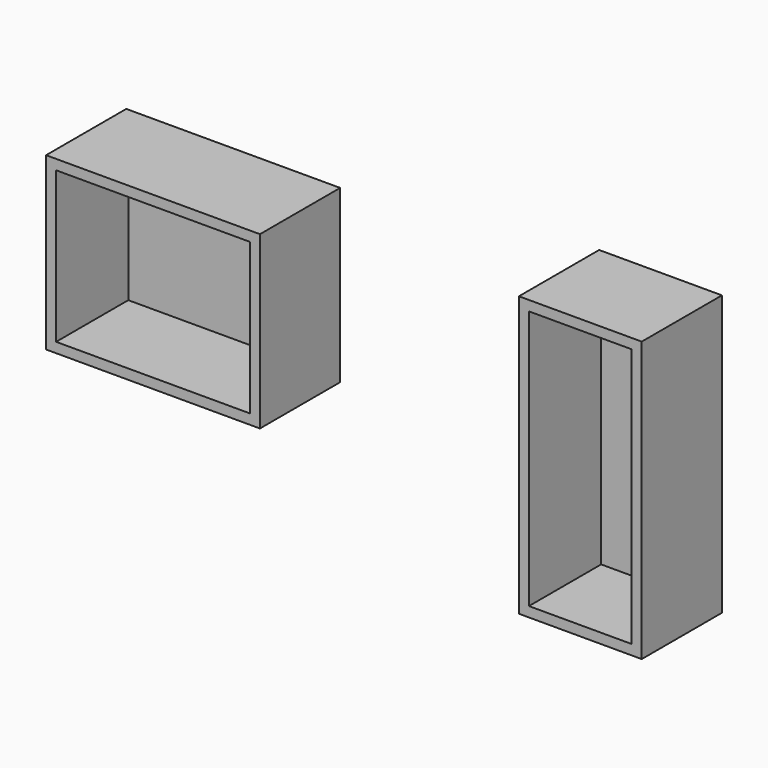
from build123d import *

# Parameters (mm, degrees)
F0_W     = 54.1866458952
F0_H     = 43.34513098
F1_DEPTH = 25.4
F0_W_2   = 31.114988029
F0_H_2   = 70.8162225783
F2_T     = -2.54
F3_T     = -2.54


with BuildPart() as f1:
    # F0 (on Front) → F1 (new body)
    with BuildSketch(Plane.XZ):
        with Locations((-27.0933229476, 74.0217454731)):
            Rectangle(F0_W, F0_H)
    extrude(amount=F1_DEPTH)

    # F2
    f2_openings = [f1.faces().sort_by_distance(p)[0] for p in [
        (-27.093323, -25.4, 74.021745),
    ]]
    offset(amount=F2_T, openings=f2_openings)


with BuildPart() as f1b:
    # F0 (on Front) → F1, piece 2 (new body)
    with BuildSketch(Plane.XZ):
        with Locations((81.1741761863, 67.7771102637)):
            Rectangle(F0_W_2, F0_H_2)
    extrude(amount=F1_DEPTH)

    # F3
    f3_openings = [f1b.faces().sort_by_distance(p)[0] for p in [
        (81.174176, -25.4, 67.77711),
    ]]
    offset(amount=F3_T, openings=f3_openings)


solid = Compound([f1.part, f1b.part])
